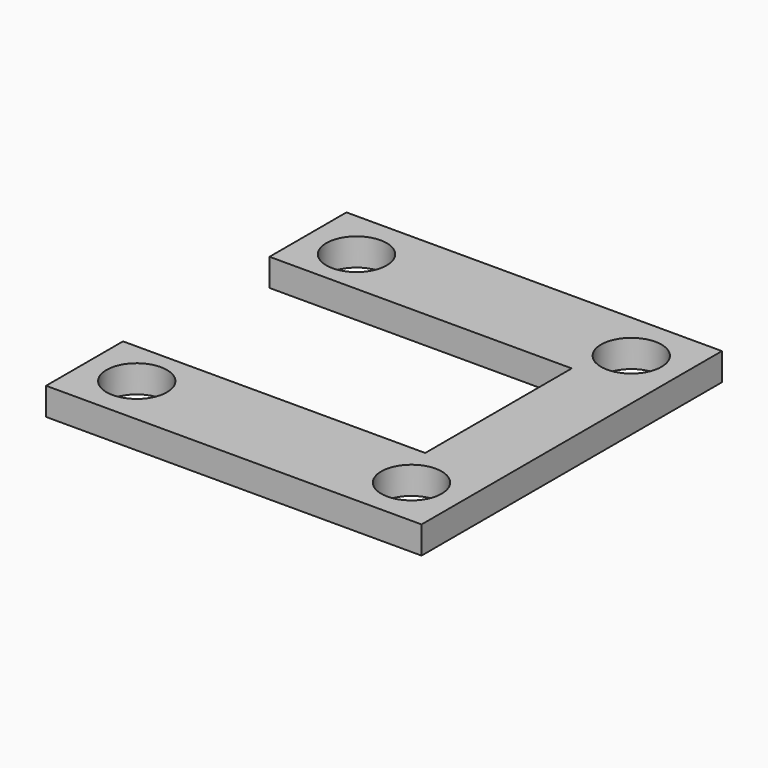
from build123d import *

# Parameters (mm, degrees)
SKETCH_R  = 3.3
PAD_DEPTH = 3


with BuildPart() as part:
    # Sketch → Pad (new body)
    with BuildSketch(Plane.XY):
        Polygon((0, 0), (41, 0), (41, -41), (0, -41), (0, -30.5), (33, -30.5), (33, -10.5), (0, -10.5), align=None)
        with Locations((5.5, -5.5)):
            Circle(SKETCH_R, mode=Mode.SUBTRACT)
        with Locations((35.5, -5.5)):
            Circle(SKETCH_R, mode=Mode.SUBTRACT)
        with Locations((5.5, -35.5)):
            Circle(SKETCH_R, mode=Mode.SUBTRACT)
        with Locations((35.5, -35.5)):
            Circle(SKETCH_R, mode=Mode.SUBTRACT)
    extrude(amount=PAD_DEPTH)


solid = part.part
